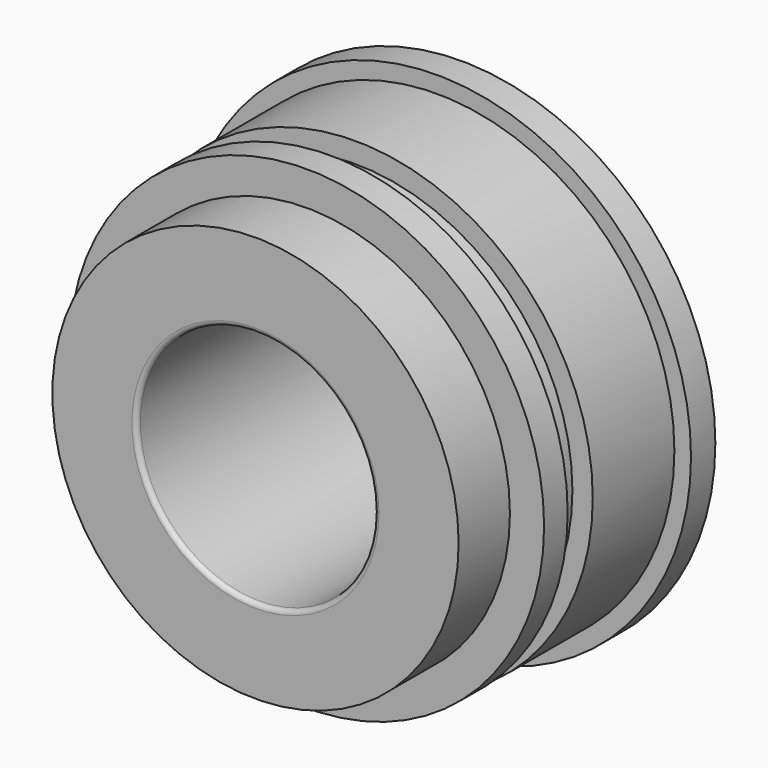
from build123d import *

# Parameters (mm, degrees)
F0_R      = 54.25
F0_R_2    = 25.4
F1_DEPTH  = 55
F3_START  = -20
F2_R      = 54.25
F2_R_2    = 46.35
F3_DEPTH  = 6.7
F4_R      = 54.25
F4_R_2    = 50.7
F5_DEPTH  = 48.5
F6_R      = 50.7
F6_R_2    = 43.4
F7_DEPTH  = 13.7
F8_R      = 1
F9_R      = 45
F9_R_2    = 25.4
F10_DEPTH = 6
F11_R     = 1


with BuildPart() as f1:
    # F0 (on Front) → F1 (new body)
    with BuildSketch(Plane.XZ):
        Circle(F0_R)
        Circle(F0_R_2, mode=Mode.SUBTRACT)
    extrude(amount=F1_DEPTH)

    # F2 (on face) → F3 (cut)
    with BuildSketch(Plane.XZ.offset(55).offset(F3_START)):
        Circle(F2_R)
        Circle(F2_R_2, mode=Mode.SUBTRACT)
    extrude(amount=-F3_DEPTH, mode=Mode.SUBTRACT)

    # F4 (on face) → F5 (cut)
    with BuildSketch(Plane.XZ.offset(55)):
        Circle(F4_R)
        Circle(F4_R_2, mode=Mode.SUBTRACT)
    extrude(amount=-F5_DEPTH, mode=Mode.SUBTRACT)

    # F6 (on face) → F7 (cut)
    with BuildSketch(Plane.XZ.offset(55)):
        Circle(F6_R)
        Circle(F6_R_2, mode=Mode.SUBTRACT)
    extrude(amount=-F7_DEPTH, mode=Mode.SUBTRACT)

    # F8
    f8_edges = [f1.edges().sort_by_distance(p)[0] for p in [
        (-25.4, -55, 0),
    ]]
    fillet(f8_edges, radius=F8_R)

    # F9 (on Front) → F10 (join)
    with BuildSketch(Plane.XZ):
        Circle(F9_R)
        Circle(F9_R_2, mode=Mode.SUBTRACT)
    extrude(amount=-F10_DEPTH)

    # F11
    f11_edges = [f1.edges().sort_by_distance(p)[0] for p in [
        (-45, 6, 0),
    ]]
    fillet(f11_edges, radius=F11_R)


solid = f1.part
